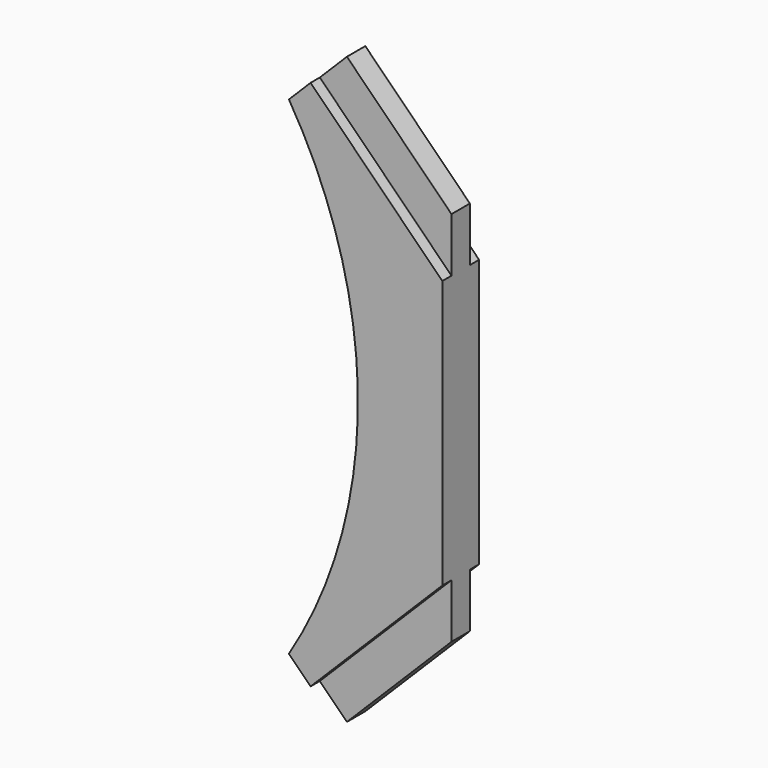
from build123d import *

# Parameters (mm, degrees)
F1_DEPTH = 38.1
F2_DEPTH = 19.05


with BuildPart() as f1:
    # F0 (on Front) → F1 (new body, symmetric)
    with BuildSketch(Plane.XZ):
        with BuildLine():
            Line((127, 289.350815773), (-127, 543.350815773))
            ThreePointArc((-127, 543.350815773), (-12.7, 139.2408841362), (-127, -264.8690475006))
            Line((-127, -264.8690475006), (127, -10.8690475006))
            Line((127, -10.8690475006), (127, 289.350815773))
        make_face()
        Polygon((127, -10.8690475006), (-127, -264.8690475006), (-100.0592316368, -291.8098158638), (127, -64.750584227), align=None)
        Polygon((-100.0592316368, 570.2915841362), (-127, 543.350815773), (127, 289.350815773), (127, 343.2323524994), align=None)
        Polygon((-91.0789755157, 579.2718402573), (-100.0592316368, 570.2915841362), (127, 343.2323524994), (127, 361.1928647416), align=None)
        Polygon((127, -64.750584227), (-100.0592316368, -291.8098158638), (-91.0789755157, -300.7900719849), (127, -82.7110964691), align=None)
    extrude(amount=F1_DEPTH, both=True)

    # F0 (on Front) → F2 (join, symmetric)
    with BuildSketch(Plane.XZ):
        Polygon((127, 361.1928647416), (127, 450.9954259523), (-46.1776949104, 624.1731208626), (-91.0789755157, 579.2718402573), align=None)
        Polygon((127, -82.7110964691), (-91.0789755157, -300.7900719849), (-46.1776949104, -345.6913525902), (127, -172.5136576798), align=None)
    extrude(amount=F2_DEPTH, both=True)


solid = f1.part
